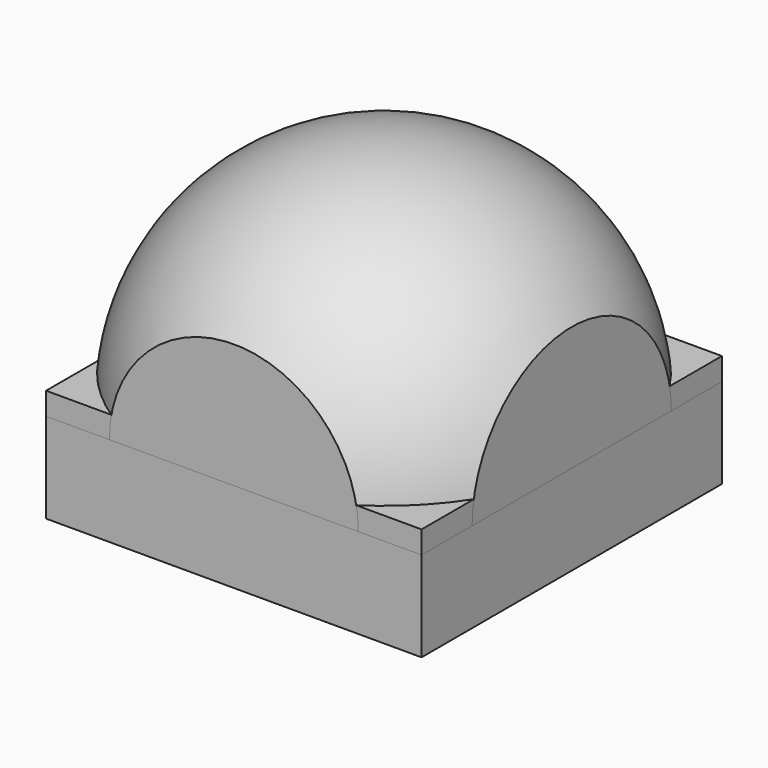
from build123d import *

# Parameters (mm, degrees)
F0_W          = 2.5
F0_H          = 2.5
F1_DEPTH      = 0.6
F2_W          = 2.5
F2_H          = 2.5
F3_DEPTH      = 0.15
F6_ANGLE_BACK = 90
F6_ANGLE      = 180
F7_W          = 2.5
F7_H          = 2.5
F8_DEPTH      = 2.101


with BuildPart() as f1:
    # F0 (on Top) → F1 (new body)
    with BuildSketch(Plane.XY):
        Rectangle(F0_W, F0_H)
    extrude(amount=F1_DEPTH)


with BuildPart() as f3:
    # F2 (on face) → F3 (new body)
    with BuildSketch(Plane.XY.offset(0.6)):
        Rectangle(F2_W, F2_H)
    extrude(amount=F3_DEPTH)


with BuildPart() as f6:
    # F5 (on Front) → F6 (revolve)
    with BuildSketch(Plane.XZ, mode=Mode.PRIVATE) as f6_sk:
        with BuildLine():
            Line((-1.5, 0.6), (1.5, 0.6))
            ThreePointArc((1.5, 0.6), (0, 2.1), (-1.5, 0.6))
        make_face()
    revolve(f6_sk.sketch.rotate(Axis((0, 0, 0.6), (1, 0, 0)), -F6_ANGLE_BACK), axis=Axis((0, 0, 0.6), (1, 0, 0)), revolution_arc=F6_ANGLE)


with BuildPart() as f8_tool:
    # F7 (on face) → F8 (new body, through all)
    with BuildSketch(Plane(origin=(0, 0, 0), x_dir=(1, 0, 0), z_dir=(0, 0, -1))):
        Rectangle(F7_W, F7_H)
    extrude(amount=-F8_DEPTH)


with BuildPart() as f1_1:
    add(f1.part)

    # F8: intersect by f8_tool
    add(f8_tool.part, mode=Mode.INTERSECT)


with BuildPart() as f3_1:
    add(f3.part)

    # F8: intersect by f8_tool
    add(f8_tool.part, mode=Mode.INTERSECT)


with BuildPart() as f6_1:
    add(f6.part)

    # F8: intersect by f8_tool
    add(f8_tool.part, mode=Mode.INTERSECT)


solid = Compound([f1_1.part, f3_1.part, f6_1.part])
